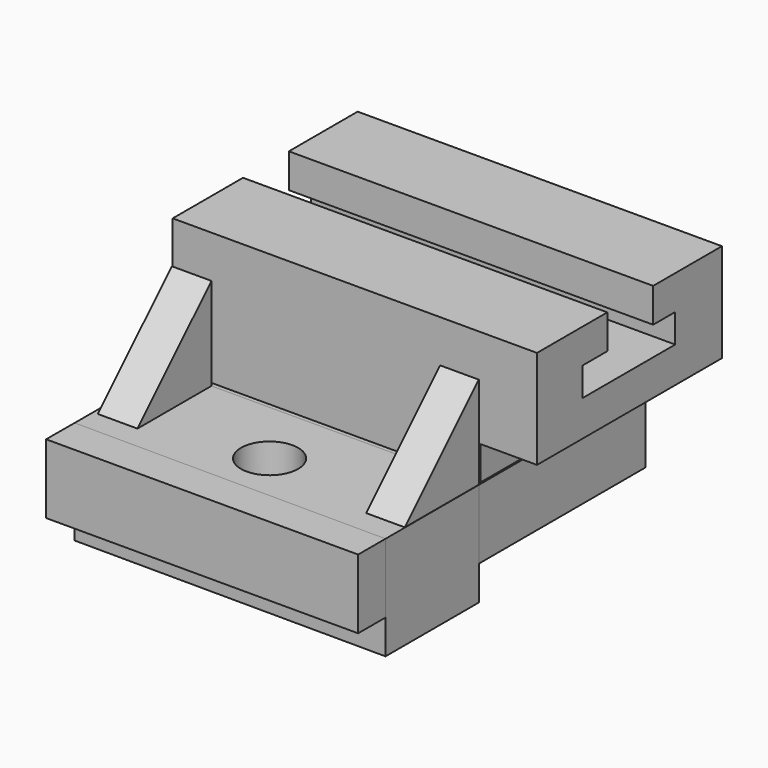
from build123d import *

# Parameters (mm, degrees)
F0_W           = 85.6876475524
F0_H           = 57.15
F1_DEPTH       = 19.05
F2_DEPTH       = 19.05
F3_DEPTH       = 28.448
F5_DEPTH       = 42.672
F5_DEPTH_BACK  = 41.656
F6_W           = 62.8299433738
F6_H           = 26.9953813404
F7_DEPTH       = 187.452
F9_DEPTH       = 58.674
F9_DEPTH_BACK  = 41.402
F10_W          = 17.01644063
F10_H          = 9.9789379165
F11_DEPTH      = 129.286
F12_R          = 7.8537426889
F13_DEPTH      = 60.706
F13_DEPTH_BACK = 80.518


with BuildPart() as f1:
    # F0 (on Top) → F1 (new body)
    with BuildSketch(Plane.XY):
        with Locations((-0.0921365968, 28.575)):
            Rectangle(F0_W, F0_H)
    extrude(amount=-F1_DEPTH)


with BuildPart() as f2:
    # F0 (on Top) → F2 (new body)
    with BuildSketch(Plane.XY):
        Polygon((42.7516871794, -32.1185484849), (-42.935960373, -31.75), (-42.9779669719, -41.5165484849), (42.7516871794, -41.5165484849), align=None)
    extrude(amount=-F2_DEPTH)


with BuildPart() as f3:
    # F0 (on Top) → F3 (new body)
    with BuildSketch(Plane.XY):
        Polygon((42.7516871794, 0), (-42.935960373, 0), (-42.935960373, -31.75), (42.7516871794, -32.1185484849), align=None)
    extrude(amount=-F3_DEPTH)

    # F4 (on Right) → F5 (join, two sides)
    with BuildSketch(Plane.YZ) as f5_sk:
        Polygon((-25.4, 0), (0, 0), (0, 25.4), align=None)
    extrude(amount=F5_DEPTH)
    extrude(f5_sk.sketch, amount=-F5_DEPTH_BACK)

    # F6 (on Front) → F7 (cut)
    with BuildSketch(Plane.XZ):
        with Locations((0.6544804201, 13.4976906702)):
            Rectangle(F6_W, F6_H)
    extrude(amount=F7_DEPTH, mode=Mode.SUBTRACT)

    # F12 (on Top) → F13 (cut, two sides)
    with BuildSketch(Plane.XY) as f13_sk:
        with Locations((0, -18.4908788651)):
            Circle(F12_R)
    extrude(amount=F13_DEPTH, mode=Mode.SUBTRACT)
    extrude(f13_sk.sketch, amount=-F13_DEPTH_BACK, mode=Mode.SUBTRACT)


with BuildPart() as f9:
    # F8 (on Right) → F9 (new body, two sides)
    with BuildSketch(Plane.YZ) as f9_sk:
        Polygon((0, 37.0681124274), (0, 0.7461162776), (63.5, 0.7461162776), (63.5, 37.0681124274), (39.8853512744, 37.0681124274), (39.8853512744, 27.6701124274), (47.4496930838, 27.6701124274), (47.4574797899, 19.7961162776), (15.7074797899, 19.7961162776), (15.7074797899, 27.6701124274), (24.1373512744, 27.6701124274), (24.1373512744, 37.0681124274), align=None)
    extrude(amount=F9_DEPTH)
    extrude(f9_sk.sketch, amount=-F9_DEPTH_BACK)

    # F10 (on Front) → F11 (cut)
    with BuildSketch(Plane.XZ):
        with Locations((51.703799516, 4.9894689582)):
            Rectangle(F10_W, F10_H)
    extrude(amount=-F11_DEPTH, mode=Mode.SUBTRACT)


solid = Compound([f1.part, f2.part, f3.part, f9.part])
